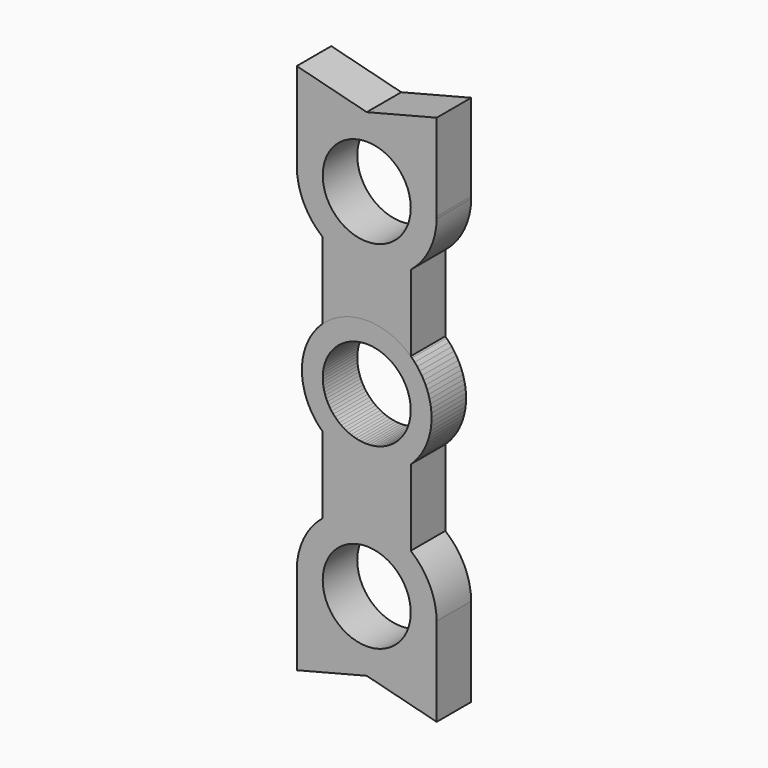
from build123d import *

# Parameters (mm, degrees)
F0_R     = 10.2
F1_DEPTH = 10
F3_COUNT = 2
F3_ANGLE = 180


with BuildPart() as f1:
    # F0 (on Front) → F1 (new body)
    with BuildSketch(Plane.XZ):
        with BuildLine():
            Line((10.2, 11.021201), (10.2, 28.674442))
            ThreePointArc((10.2, 28.674442), (14.585094, 34.197259), (16.210476, 41.059379))
            Line((16.210476, 41.059379), (16.210476, 41.491587))
            ThreePointArc((16.210476, 41.491587), (11.386895, 52.81519), (0, 57.487399))
            Line((0, 57.487399), (-16.210476, 61.625365))
            Line((-16.210476, 61.625365), (-16.210476, 41.059379))
            ThreePointArc((-16.210476, 41.059379), (-14.585094, 34.197259), (-10.2, 28.674442))
            Line((-10.2, 28.674442), (-10.2, 11.021201))
            ThreePointArc((-10.2, 11.021201), (0, -15.016887), (10.2, 11.021201))
        make_face()
        Circle(F0_R, mode=Mode.SUBTRACT)
        with Locations((0, 41.275483)):
            Circle(F0_R, mode=Mode.SUBTRACT)
        with BuildLine():
            Line((16.210476, 41.491587), (16.210476, 41.059379))
            ThreePointArc((16.210476, 41.059379), (16.211916, 41.275483), (16.210476, 41.491587))
        make_face()
        with BuildLine():
            ThreePointArc((0, 57.487399), (11.386895, 52.81519), (16.210476, 41.491587))
            Line((16.210476, 41.491587), (16.210476, 61.625365))
            Line((16.210476, 61.625365), (0, 57.487399))
        make_face()
    extrude(amount=F1_DEPTH)


with BuildPart() as f3_1:
    # F3: instance of F1
    add(f1.part.rotate(Axis((0, -32.181293, 0), (0, -1, 0)), 1 * F3_ANGLE / (F3_COUNT - 1)))


solid = Compound([f1.part, f3_1.part])
